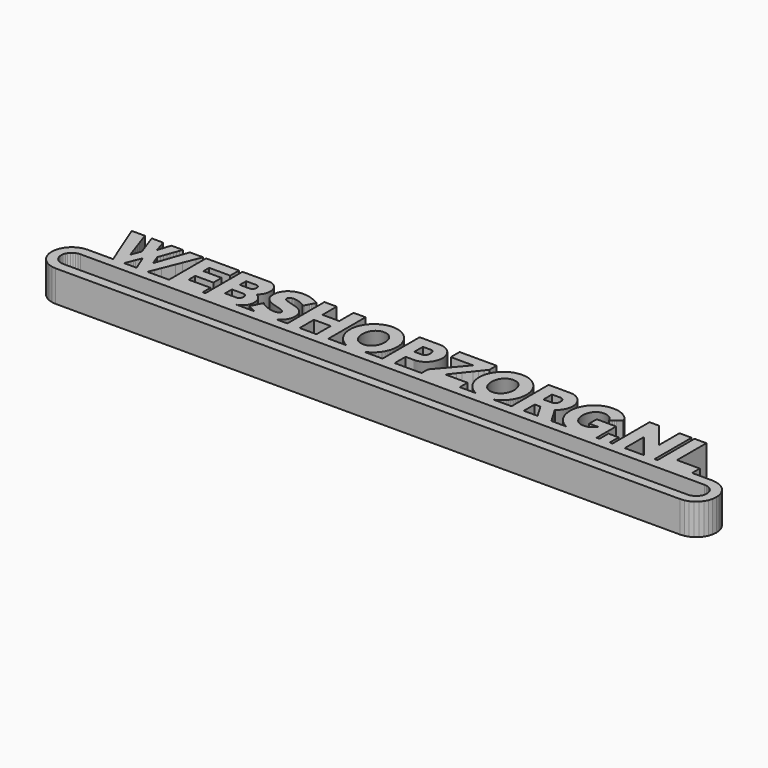
from build123d import *

# Parameters (mm, degrees)
F1_DEPTH = 8
F2_DEPTH = 8
F3_DEPTH = 1


with BuildPart() as f1:
    # F0 (on Top) → F1 (new body)
    with BuildSketch(Plane.XY):
        Polygon((80.878805, -0.939305), (79.840246, -0.834712), (79.193636, -0.834712), (78.546992, -0.834712), (77.900347, -0.834712), (77.253703, -0.834712), (76.607059, -0.834712), (75.960449, -0.834712), (75.313839, -0.834712), (74.667194, -0.834712), (74.667194, -0.526031), (74.667194, -0.217351), (74.667194, 0.09133), (74.667194, 0.40001), (74.667194, 0.708691), (74.667194, 1.017371), (74.667194, 1.326052), (74.667194, 1.634733), (73.93959, 1.634733), (73.211986, 1.634733), (72.484382, 1.634733), (71.756778, 1.634733), (71.029173, 1.634733), (70.301568, 1.634733), (69.573964, 1.634733), (68.84636, 1.634733), (68.84636, 2.807719), (68.84636, 3.980705), (68.84636, 5.153691), (68.84636, 6.326677), (68.84636, 7.499663), (68.84636, 8.672649), (68.84636, 9.845635), (68.84636, 11.018621), (68.467124, 11.018621), (68.087888, 11.018621), (67.708652, 11.018621), (67.329415, 11.018621), (66.950179, 11.018621), (66.570943, 11.018621), (66.191707, 11.018621), (65.812471, 11.018621), (65.812471, 9.536955), (65.812471, 8.055288), (65.812471, 6.573621), (65.812471, 5.091955), (65.812471, 3.610288), (65.812471, 2.128621), (65.812471, 0.646955), (65.812471, -0.834712), (65.719867, -0.834712), (65.627263, -0.834712), (65.534658, -0.834712), (65.442054, -0.834712), (65.34945, -0.834712), (65.256846, -0.834712), (65.164242, -0.834712), (65.071638, -0.834712), (65.071638, 0.646955), (65.071638, 2.128621), (65.071638, 3.610288), (65.071638, 5.091955), (65.071638, 6.573621), (65.071638, 8.055288), (65.071638, 9.536955), (65.071638, 11.018621), (64.683582, 11.018621), (64.295527, 11.018621), (63.907471, 11.018621), (63.519415, 11.018621), (63.13136, 11.018621), (62.743304, 11.018621), (62.355249, 11.018621), (61.967193, 11.018621), (61.967193, 10.202341), (61.967193, 9.386094), (61.967193, 8.569848), (61.967193, 7.753567), (61.967193, 6.937286), (61.967193, 6.121039), (61.967193, 5.304793), (61.967193, 4.488512), (61.317552, 5.304793), (60.66791, 6.121039), (60.018268, 6.937286), (59.368627, 7.753567), (58.718985, 8.569848), (58.069343, 9.386094), (57.419702, 10.202341), (56.77006, 11.018621), (56.462792, 11.018621), (56.155524, 11.018621), (55.848256, 11.018621), (55.540988, 11.018621), (55.23372, 11.018621), (54.926452, 11.018621), (54.619183, 11.018621), (54.311915, 11.018621), (54.311915, 9.536955), (54.311915, 8.055288), (54.311915, 6.573621), (54.311915, 5.091955), (54.311915, 3.610288), (54.311915, 2.128621), (54.311915, 0.646955), (54.311915, -0.834712), (54.223721, -0.834712), (54.135527, -0.834712), (54.047332, -0.834712), (53.959138, -0.834712), (53.870943, -0.834712), (53.782749, -0.834712), (53.694554, -0.834712), (53.60636, -0.834712), (53.60636, -0.477524), (53.60636, -0.120337), (53.60636, 0.236851), (53.60636, 0.594038), (53.60636, 0.951226), (53.60636, 1.308413), (53.60636, 1.665601), (53.60636, 2.022788), (53.28004, 2.022788), (52.953721, 2.022788), (52.627402, 2.022788), (52.301082, 2.022788), (51.974763, 2.022788), (51.648443, 2.022788), (51.322124, 2.022788), (50.995804, 2.022788), (50.995804, 1.665601), (50.995804, 1.308413), (50.995804, 0.951226), (50.995804, 0.594038), (50.995804, 0.236851), (50.995804, -0.120337), (50.995804, -0.477524), (50.995804, -0.834712), (50.9032, -0.834712), (50.810596, -0.834712), (50.717992, -0.834712), (50.625388, -0.834712), (50.532783, -0.834712), (50.440179, -0.834712), (50.347575, -0.834712), (50.254971, -0.834712), (50.254971, -0.054191), (50.254971, 0.72633), (50.254971, 1.506851), (50.254971, 2.287371), (50.254971, 3.067892), (50.254971, 3.848413), (50.254971, 4.628934), (50.254971, 5.409455), (49.6332, 5.409455), (49.011429, 5.409455), (48.389658, 5.409455), (47.767888, 5.409455), (47.146117, 5.409455), (46.524346, 5.409455), (45.902575, 5.409455), (45.280804, 5.409455), (45.280804, 5.109594), (45.280804, 4.809733), (45.280804, 4.509871), (45.280804, 4.21001), (45.280804, 3.910149), (45.280804, 3.610288), (45.280804, 3.310427), (45.280804, 3.010566), (45.576256, 3.010566), (45.871707, 3.010566), (46.167158, 3.010566), (46.46261, 3.010566), (46.758061, 3.010566), (47.053513, 3.010566), (47.348964, 3.010566), (47.644415, 3.010566), (47.644415, 3.003193), (47.644415, 2.995821), (47.644415, 2.988448), (47.644415, 2.981076), (47.644415, 2.973703), (47.644415, 2.966331), (47.644415, 2.958958), (47.644415, 2.95162), (47.326502, 2.632088), (47.006728, 2.356136), (46.68344, 2.123419), (46.35502, 1.933664), (46.019846, 1.786592), (45.676232, 1.681896), (45.322593, 1.619299), (44.957275, 1.59849), (44.79601, 1.602383), (44.637605, 1.614062), (44.482335, 1.633492), (44.330509, 1.66064), (44.182439, 1.695504), (44.038434, 1.738017), (43.89877, 1.788143), (43.763791, 1.845917), (43.63274, 1.910754), (43.505684, 1.981791), (43.382832, 2.059031), (43.264459, 2.142298), (43.150667, 2.23163), (43.041664, 2.326852), (42.937657, 2.427966), (42.838748, 2.534867), (42.744318, 2.647935), (42.654815, 2.766653), (42.570341, 2.890883), (42.490999, 3.020557), (42.416895, 3.155501), (42.348166, 3.295613), (42.284914, 3.440824), (42.227208, 3.590961), (42.17567, 3.74568), (42.130884, 3.90443), (42.09285, 4.067108), (42.061603, 4.233575), (42.037246, 4.403625), (42.019779, 4.577189), (42.009272, 4.754094), (42.005758, 4.934169), (42.008962, 5.110834), (42.018642, 5.28488), (42.034697, 5.456101), (42.057193, 5.62436), (42.086097, 5.789483), (42.12141, 5.951368), (42.163095, 6.109912), (42.211189, 6.264872), (42.264657, 6.415147), (42.323637, 6.561081), (42.38806, 6.702537), (42.457892, 6.839445), (42.533031, 6.971633), (42.613474, 7.098999), (42.699119, 7.221437), (42.789931, 7.338846), (42.884775, 7.449434), (42.984407, 7.553958), (43.088759, 7.65235), (43.197727, 7.744541), (43.311243, 7.830392), (43.429203, 7.909905), (43.551504, 7.982941), (43.678077, 8.0495), (43.807992, 8.108618), (43.94204, 8.159916), (44.080154, 8.203393), (44.222126, 8.23905), (44.367854, 8.266851), (44.517233, 8.28673), (44.670127, 8.29865), (44.826396, 8.302646), (45.030139, 8.296135), (45.230747, 8.27667), (45.428151, 8.244286), (45.622144, 8.199018), (45.812555, 8.140933), (45.99921, 8.070102), (46.181972, 7.98649), (46.360635, 7.890199), (46.530754, 7.782781), (46.690882, 7.664545), (46.84095, 7.535699), (46.980821, 7.396379), (47.110357, 7.246655), (47.229419, 7.086665), (47.337974, 6.916546), (47.435815, 6.736471), (47.449078, 6.709909), (47.462308, 6.683382), (47.475571, 6.656855), (47.488835, 6.630328), (47.502099, 6.603801), (47.515362, 6.577239), (47.528591, 6.550677), (47.541855, 6.52415), (47.835136, 6.745325), (48.128382, 6.966535), (48.421663, 7.187744), (48.714944, 7.408919), (49.008225, 7.630129), (49.301506, 7.851338), (49.594753, 8.072514), (49.888034, 8.293723), (49.87856, 8.312223), (49.869051, 8.330689), (49.859543, 8.349189), (49.850034, 8.367689), (49.840526, 8.386155), (49.831018, 8.404655), (49.821509, 8.423155), (49.812001, 8.441621), (49.64202, 8.744169), (49.451609, 9.03087), (49.240976, 9.301448), (49.010327, 9.555799), (48.759868, 9.793614), (48.489807, 10.014721), (48.200385, 10.218911), (47.891773, 10.40598), (47.567728, 10.572585), (47.229695, 10.717245), (46.878019, 10.839855), (46.512977, 10.940349), (46.134912, 11.018621), (45.74417, 11.074639), (45.341025, 11.108332), (44.925822, 11.119563), (44.608459, 11.111984), (44.295507, 11.089315), (43.98724, 11.051625), (43.683899, 10.998916), (43.385761, 10.931254), (43.0931, 10.848709), (42.806123, 10.751282), (42.525141, 10.63911), (42.252323, 10.513984), (41.988153, 10.377799), (41.732872, 10.230659), (41.486685, 10.072736), (41.249766, 9.904133), (41.02239, 9.725057), (40.804763, 9.535577), (40.597024, 9.335899), (40.399448, 9.125955), (40.212379, 8.906365), (40.036024, 8.677403), (39.870488, 8.439175), (39.715906, 8.19199), (39.572452, 7.93595), (39.440195, 7.671367), (39.319341, 7.398412), (39.2112, 7.118222), (39.117321, 6.833141), (39.037739, 6.543374), (38.972489, 6.249231), (38.921674, 5.95092), (38.885294, 5.648717), (38.863452, 5.342896), (38.856148, 5.033698), (38.863417, 4.693082), (38.885259, 4.358632), (38.921536, 4.03059), (38.972248, 3.709335), (39.037326, 3.395039), (39.11677, 3.088081), (39.210442, 2.788633), (39.318377, 2.497074), (39.438886, 2.214198), (39.570316, 1.941002), (39.712461, 1.677727), (39.865217, 1.424582), (40.028411, 1.181737), (40.20194, 0.949469), (40.385633, 0.727949), (40.57935, 0.517419), (40.78268, 0.317018), (40.994863, 0.126814), (41.215728, -0.052675), (41.445103, -0.22114), (41.682677, -0.37803), (41.928381, -0.522965), (42.181905, -0.655498), (42.443113, -0.775146), (42.457237, -0.782346), (42.471431, -0.791235), (42.485591, -0.801088), (42.499819, -0.810975), (42.514048, -0.820105), (42.528276, -0.827684), (42.542505, -0.832817), (42.556767, -0.834712), (42.073006, -0.834712), (41.58928, -0.834712), (41.105554, -0.834712), (40.621794, -0.834712), (40.138068, -0.834712), (39.654342, -0.834712), (39.170582, -0.834712), (38.686856, -0.834712), (38.377176, -0.309679), (38.067462, 0.215319), (37.757783, 0.740317), (37.448103, 1.265349), (37.138389, 1.790348), (36.828709, 2.315346), (36.51903, 2.840378), (36.209316, 3.365376), (36.300163, 3.424184), (36.389219, 3.48561), (36.476414, 3.549586), (36.561714, 3.616041), (36.645086, 3.684806), (36.726425, 3.755809), (36.805765, 3.828914), (36.883004, 3.904017), (36.97516, 3.999515), (37.063906, 4.098355), (37.149241, 4.200364), (37.231028, 4.305439), (37.309197, 4.413478), (37.383714, 4.524272), (37.454511, 4.637753), (37.521484, 4.75375), (37.584253, 4.871193), (37.643474, 4.991082), (37.699044, 5.113245), (37.750927, 5.237579), (37.799089, 5.363945), (37.843531, 5.492206), (37.884149, 5.622258), (37.920908, 5.753964), (37.953395, 5.886532), (37.981611, 6.02089), (38.00552, 6.156972), (38.025122, 6.294569), (38.040384, 6.433613), (38.051339, 6.573897), (38.057885, 6.715422), (38.06009, 6.857911), (38.055301, 7.049389), (38.040935, 7.24073), (38.017026, 7.431726), (37.983574, 7.622171), (37.940683, 7.811961), (37.888352, 8.000856), (37.826581, 8.188682), (37.755475, 8.375338), (37.676168, 8.558617), (37.589283, 8.737555), (37.494922, 8.912014), (37.393154, 9.081789), (37.284048, 9.24674), (37.167741, 9.406799), (37.044338, 9.561759), (36.913872, 9.711483), (36.775689, 9.855385), (36.631064, 9.991811), (36.480135, 10.120864), (36.323073, 10.242648), (36.159982, 10.357266), (35.991034, 10.464788), (35.816368, 10.565385), (35.636086, 10.659091), (35.448294, 10.744702), (35.255851, 10.818393), (35.059033, 10.880266), (34.857908, 10.930496), (34.652684, 10.969288), (34.443566, 10.996814), (34.230728, 11.013178), (34.014342, 11.018621), (33.323635, 11.018621), (32.632893, 11.018621), (31.942186, 11.018621), (31.251479, 11.018621), (30.560737, 11.018621), (29.87003, 11.018621), (29.179323, 11.018621), (28.488581, 11.018621), (28.488581, 9.536955), (28.488581, 8.055288), (28.488581, 6.573621), (28.488581, 5.091955), (28.488581, 3.610288), (28.488581, 2.128621), (28.488581, 0.646955), (28.488581, -0.834712), (27.910942, -0.834712), (27.333303, -0.834712), (26.755629, -0.834712), (26.17799, -0.834712), (25.600351, -0.834712), (25.022677, -0.834712), (24.445038, -0.834712), (23.867399, -0.834712), (23.893685, -0.821448), (23.919937, -0.808185), (23.946119, -0.794955), (23.972268, -0.78183), (23.998381, -0.768876), (24.024392, -0.756164), (24.050333, -0.743692), (24.076206, -0.7316), (24.348817, -0.597896), (24.612504, -0.452961), (24.866993, -0.297036), (25.112146, -0.130431), (25.347688, 0.046544), (25.573479, 0.233612), (25.78928, 0.430465), (25.994883, 0.636826), (26.190048, 0.852834), (26.37467, 1.077798), (26.548579, 1.311479), (26.711704, 1.553566), (26.86384, 1.803783), (27.004882, 2.061856), (27.134693, 2.327438), (27.253101, 2.600289), (27.359175, 2.879377), (27.451263, 3.162047), (27.529329, 3.447955), (27.593304, 3.736792), (27.643155, 4.028316), (27.678811, 4.322252), (27.700274, 4.618254), (27.707406, 4.916048), (27.700688, 5.201578), (27.680499, 5.486832), (27.646944, 5.7715), (27.600022, 6.055341), (27.539836, 6.338115), (27.466421, 6.619545), (27.379743, 6.899355), (27.279973, 7.177237), (27.167628, 7.450502), (27.043708, 7.717083), (26.908316, 7.97674), (26.761624, 8.229197), (26.603769, 8.474315), (26.434856, 8.71182), (26.255022, 8.941504), (26.064405, 9.163093), (25.862488, 9.375724), (25.649891, 9.578089), (25.426821, 9.770153), (25.193485, 9.95171), (24.950089, 10.122552), (24.69684, 10.282611), (24.433979, 10.431612), (24.161645, 10.569519), (23.879112, 10.693956), (23.588415, 10.801994), (23.289794, 10.893564), (22.98356, 10.968633), (22.669987, 11.027131), (22.349318, 11.068989), (22.021861, 11.094138), (21.687859, 11.102544), (21.361781, 11.094551), (21.041284, 11.070642), (20.726712, 11.030886), (20.418238, 10.975282), (20.116241, 10.9039), (19.820893, 10.816842), (19.532504, 10.714144), (19.251281, 10.595839), (18.978119, 10.464375), (18.713812, 10.321782), (18.45853, 10.168303), (18.212412, 10.004041), (17.975769, 9.829202), (17.748806, 9.643891), (17.53173, 9.448278), (17.324715, 9.242468), (17.127449, 9.02715), (16.941, 8.802908), (16.765472, 8.569916), (16.600935, 8.328346), (16.447628, 8.078474), (16.305621, 7.820505), (16.175121, 7.554647), (16.056196, 7.281106), (15.950156, 7.002054), (15.858069, 6.719625), (15.780003, 6.433992), (15.716027, 6.145465), (15.666142, 5.854286), (15.630486, 5.560694), (15.609023, 5.264933), (15.601891, 4.967311), (15.608782, 4.673789), (15.629418, 4.381645), (15.663731, 4.091155), (15.711687, 3.802593), (15.773216, 3.516237), (15.848319, 3.232292), (15.936892, 2.951035), (16.038936, 2.67274), (16.152865, 2.39975), (16.278198, 2.133755), (16.414831, 1.874925), (16.562591, 1.623536), (16.721341, 1.379727), (16.890943, 1.143772), (17.071293, 0.915879), (17.262255, 0.69622), (17.463965, 0.484898), (17.676356, 0.28267), (17.899322, 0.090021), (18.132555, -0.092638), (18.375917, -0.26479), (18.6292, -0.426055), (18.89213, -0.575916), (19.164568, -0.713961), (19.194644, -0.728672), (19.224857, -0.743968), (19.255174, -0.759609), (19.28556, -0.775422), (19.316083, -0.791063), (19.346676, -0.806324), (19.377337, -0.820966), (19.408067, -0.834712), (18.889477, -0.834712), (18.370887, -0.834712), (17.852331, -0.834712), (17.333741, -0.834712), (16.815151, -0.834712), (16.296595, -0.834712), (15.778005, -0.834712), (15.259414, -0.834712), (15.259414, -0.526031), (15.259414, -0.217351), (15.259414, 0.09133), (15.259414, 0.40001), (15.259414, 0.708691), (15.259414, 1.017371), (15.259414, 1.326052), (15.259414, 1.634733), (14.54721, 1.634733), (13.835004, 1.634733), (13.122834, 1.634733), (12.41063, 1.634733), (11.698425, 1.634733), (10.986255, 1.634733), (10.27405, 1.634733), (9.561846, 1.634733), (10.265231, 2.521604), (10.968616, 3.408474), (11.671967, 4.295345), (12.375352, 5.182216), (13.078737, 6.069087), (13.782088, 6.955958), (14.485474, 7.842829), (15.188859, 8.7297), (15.188859, 9.015815), (15.188859, 9.30193), (15.188859, 9.588046), (15.188859, 9.874161), (15.188859, 10.160276), (15.188859, 10.446391), (15.188859, 10.732506), (15.188859, 11.018621), (14.007052, 11.018621), (12.825247, 11.018621), (11.643441, 11.018621), (10.461636, 11.018621), (9.27983, 11.018621), (8.098025, 11.018621), (6.916219, 11.018621), (5.734413, 11.018621), (5.734413, 10.665844), (5.734413, 10.313066), (5.734413, 9.960288), (5.734413, 9.60751), (5.734413, 9.254733), (5.734413, 8.901955), (5.734413, 8.549177), (5.734413, 8.196399), (6.446859, 8.196399), (7.159339, 8.196399), (7.87182, 8.196399), (8.584265, 8.196399), (9.296711, 8.196399), (10.009157, 8.196399), (10.721603, 8.196399), (11.434083, 8.196399), (10.690734, 7.318623), (9.947421, 6.440847), (9.204107, 5.563072), (8.460793, 4.685296), (7.717479, 3.80752), (6.974131, 2.929744), (6.230783, 2.051934), (5.487469, 1.174158), (5.487469, 0.923045), (5.487469, 0.671966), (5.487469, 0.420853), (5.487469, 0.16974), (5.487469, -0.081373), (5.487469, -0.332486), (5.487469, -0.583599), (5.487469, -0.834712), (4.627573, -0.834712), (3.767677, -0.834712), (2.907781, -0.834712), (2.047886, -0.834712), (1.18799, -0.834712), (0.328094, -0.834712), (-0.531802, -0.834712), (-1.391698, -0.834712), (-1.391698, -0.398149), (-1.391698, 0.038413), (-1.391698, 0.474976), (-1.391698, 0.911538), (-1.391698, 1.348101), (-1.391698, 1.784663), (-1.391698, 2.221226), (-1.391698, 2.657788), (-1.119328, 2.657788), (-0.846976, 2.657788), (-0.574624, 2.657788), (-0.302255, 2.657788), (-0.029903, 2.657788), (0.242449, 2.657788), (0.514818, 2.657788), (0.787187, 2.657788), (1.00695, 2.663438), (1.222406, 2.680319), (1.433418, 2.708293), (1.639711, 2.747292), (1.84118, 2.797177), (2.037619, 2.857914), (2.228857, 2.929331), (2.414719, 3.011358), (2.59414, 3.102309), (2.767222, 3.201321), (2.933861, 3.308257), (3.093886, 3.423013), (3.247192, 3.545451), (3.393643, 3.6754), (3.533135, 3.812791), (3.665461, 3.957416), (3.789416, 4.10714), (3.906652, 4.2621), (4.017033, 4.422228), (4.12049, 4.587317), (4.216918, 4.75716), (4.306284, 4.931689), (4.388484, 5.110662), (4.463414, 5.293975), (4.530421, 5.481664), (4.588575, 5.671937), (4.637874, 5.864621), (4.678285, 6.059544), (4.709773, 6.256535), (4.73227, 6.455386), (4.745809, 6.655925), (4.750322, 6.85798), (4.745533, 7.049079), (4.731133, 7.240075), (4.707155, 7.430865), (4.673634, 7.621206), (4.630605, 7.810996), (4.57817, 8.000029), (4.516262, 8.188165), (4.444983, 8.375234), (4.365815, 8.558548), (4.279412, 8.737417), (4.185774, 8.911739), (4.085074, 9.081375), (3.977346, 9.246189), (3.862693, 9.406041), (3.741253, 9.560726), (3.613061, 9.710174), (3.477049, 9.85411), (3.334284, 9.990605), (3.184836, 10.119796), (3.028842, 10.241752), (2.866509, 10.356543), (2.697906, 10.464306), (2.523171, 10.565109), (2.34251, 10.659091), (2.154477, 10.744702), (1.96131, 10.818358), (1.763183, 10.880232), (1.560301, 10.930496), (1.352803, 10.969288), (1.14093, 10.996814), (0.924785, 11.013178), (0.704643, 11.018621), (0.054553, 11.018621), (-0.595553, 11.018621), (-1.24566, 11.018621), (-1.89575, 11.018621), (-2.545839, 11.018621), (-3.195946, 11.018621), (-3.846053, 11.018621), (-4.496142, 11.018621), (-4.496142, 9.536955), (-4.496142, 8.055288), (-4.496142, 6.573621), (-4.496142, 5.091955), (-4.496142, 3.610288), (-4.496142, 2.128621), (-4.496142, 0.646955), (-4.496142, -0.834712), (-5.084134, -0.834712), (-5.672125, -0.834712), (-6.260117, -0.834712), (-6.848109, -0.834712), (-7.4361, -0.834712), (-8.024092, -0.834712), (-8.612101, -0.834712), (-9.200093, -0.834712), (-9.173789, -0.821448), (-9.147538, -0.808185), (-9.121338, -0.794955), (-9.09519, -0.78183), (-9.06911, -0.768876), (-9.0431, -0.756164), (-9.017158, -0.743692), (-8.991303, -0.7316), (-8.718847, -0.597965), (-8.455298, -0.453099), (-8.200894, -0.297208), (-7.95581, -0.130603), (-7.720269, 0.046371), (-7.494512, 0.233474), (-7.278711, 0.430362), (-7.073074, 0.636757), (-6.877806, 0.852696), (-6.693114, 1.077661), (-6.519119, 1.311341), (-6.355942, 1.553428), (-6.203755, 1.803646), (-6.062679, 2.061752), (-5.93285, 2.327403), (-5.814408, 2.600289), (-5.708333, 2.879377), (-5.616246, 3.162047), (-5.53818, 3.447955), (-5.474205, 3.736792), (-5.424354, 4.028316), (-5.388697, 4.322252), (-5.367252, 4.618254), (-5.360103, 4.916048), (-5.366838, 5.201371), (-5.387009, 5.486453), (-5.420599, 5.771052), (-5.467521, 6.054859), (-5.527759, 6.337632), (-5.60126, 6.619131), (-5.687973, 6.899045), (-5.787863, 7.177133), (-5.900087, 7.450398), (-6.023939, 7.717014), (-6.159262, 7.976671), (-6.30592, 8.229162), (-6.463791, 8.474281), (-6.632756, 8.711786), (-6.812659, 8.941436), (-7.003379, 9.163024), (-7.20509, 9.375587), (-7.417549, 9.577951), (-7.64055, 9.769947), (-7.873852, 9.951469), (-8.117282, 10.122345), (-8.370652, 10.282405), (-8.633719, 10.431508), (-8.906278, 10.569519), (-9.188793, 10.693956), (-9.479473, 10.801994), (-9.778042, 10.893564), (-10.084225, 10.968633), (-10.397763, 11.027131), (-10.718346, 11.068989), (-11.045751, 11.094138), (-11.379684, 11.102544), (-11.705711, 11.094551), (-12.026156, 11.070642), (-12.340745, 11.030886), (-12.649219, 10.975282), (-12.951302, 10.9039), (-13.246754, 10.816842), (-13.53528, 10.714144), (-13.81659, 10.595839), (-14.089493, 10.464443), (-14.353664, 10.321954), (-14.608876, 10.16851), (-14.854925, 10.004282), (-15.091603, 9.829409), (-15.318704, 9.644028), (-15.536003, 9.448312), (-15.743295, 9.242399), (-15.940681, 9.026805), (-16.127233, 8.802323), (-16.30283, 8.569159), (-16.467299, 8.327588), (-16.620519, 8.077785), (-16.762371, 7.819954), (-16.892665, 7.554337), (-17.011314, 7.281106), (-17.117371, 7.002054), (-17.209458, 6.719625), (-17.287507, 6.433992), (-17.351482, 6.145465), (-17.401333, 5.854286), (-17.43699, 5.560694), (-17.458435, 5.264933), (-17.465584, 4.967311), (-17.458694, 4.673858), (-17.438092, 4.381817), (-17.403813, 4.091396), (-17.355892, 3.802869), (-17.294397, 3.516478), (-17.21938, 3.232499), (-17.130859, 2.951138), (-17.028918, 2.672671), (-16.914713, 2.399337), (-16.789174, 2.1331), (-16.652404, 1.874167), (-16.504575, 1.622709), (-16.34579, 1.378969), (-16.176205, 1.143152), (-15.995941, 0.9155), (-15.805169, 0.69622), (-15.60351, 0.484898), (-15.39112, 0.282705), (-15.16817, 0.090055), (-14.93492, -0.092569), (-14.691559, -0.264721), (-14.43831, -0.425986), (-14.175363, -0.575882), (-13.902941, -0.713961), (-13.872865, -0.728672), (-13.842686, -0.743968), (-13.812404, -0.759609), (-13.782018, -0.775422), (-13.751529, -0.791063), (-13.720937, -0.806324), (-13.690275, -0.820966), (-13.659528, -0.834712), (-14.242732, -0.834712), (-14.825917, -0.834712), (-15.409103, -0.834712), (-15.992289, -0.834712), (-16.575475, -0.834712), (-17.15866, -0.834712), (-17.741846, -0.834712), (-18.325032, -0.834712), (-18.325032, 0.646955), (-18.325032, 2.128621), (-18.325032, 3.610288), (-18.325032, 5.091955), (-18.325032, 6.573621), (-18.325032, 8.055288), (-18.325032, 9.536955), (-18.325032, 11.018621), (-18.708678, 11.018621), (-19.092324, 11.018621), (-19.47597, 11.018621), (-19.859615, 11.018621), (-20.243261, 11.018621), (-20.626907, 11.018621), (-21.010553, 11.018621), (-21.394199, 11.018621), (-21.394199, 10.449767), (-21.394199, 9.880913), (-21.394199, 9.312059), (-21.394199, 8.743205), (-21.394199, 8.174351), (-21.394199, 7.605496), (-21.394199, 7.036642), (-21.394199, 6.467788), (-21.932185, 6.467788), (-22.470171, 6.467788), (-23.008157, 6.467788), (-23.546143, 6.467788), (-24.084129, 6.467788), (-24.622115, 6.467788), (-25.160101, 6.467788), (-25.698088, 6.467788), (-25.698088, 7.036642), (-25.698088, 7.605496), (-25.698088, 8.174351), (-25.698088, 8.743205), (-25.698088, 9.312059), (-25.698088, 9.880913), (-25.698088, 10.449767), (-25.698088, 11.018621), (-26.090553, 11.018621), (-26.483018, 11.018621), (-26.875483, 11.018621), (-27.267949, 11.018621), (-27.660414, 11.018621), (-28.052879, 11.018621), (-28.445345, 11.018621), (-28.83781, 11.018621), (-28.83781, 9.536955), (-28.83781, 8.055288), (-28.83781, 6.573621), (-28.83781, 5.091955), (-28.83781, 3.610288), (-28.83781, 2.128621), (-28.83781, 0.646955), (-28.83781, -0.834712), (-29.191724, -0.834712), (-29.545639, -0.834712), (-29.899554, -0.834712), (-30.253451, -0.834712), (-30.607349, -0.834712), (-30.961263, -0.834712), (-31.315178, -0.834712), (-31.669093, -0.834712), (-31.577901, -0.79344), (-31.488173, -0.749205), (-31.399893, -0.702351), (-31.313128, -0.653224), (-31.227862, -0.602202), (-31.144112, -0.549596), (-31.061929, -0.495783), (-30.981314, -0.44111), (-30.822581, -0.324218), (-30.671531, -0.197817), (-30.528284, -0.062184), (-30.392926, 0.082407), (-30.265595, 0.235679), (-30.146378, 0.397392), (-30.035411, 0.567201), (-29.932816, 0.744864), (-29.840143, 0.93245), (-29.759683, 1.130612), (-29.69147, 1.339074), (-29.635556, 1.557494), (-29.591976, 1.785662), (-29.560815, 2.023305), (-29.542073, 2.270146), (-29.535821, 2.525944), (-29.540127, 2.735199), (-29.553063, 2.937737), (-29.574578, 3.133349), (-29.604619, 3.32183), (-29.643204, 3.503008), (-29.690281, 3.676641), (-29.745816, 3.842591), (-29.809775, 4.000617), (-29.882018, 4.152477), (-29.961703, 4.298997), (-30.048761, 4.440039), (-30.143088, 4.575466), (-30.244615, 4.705174), (-30.353238, 4.828991), (-30.468925, 4.946813), (-30.591536, 5.058503), (-30.719039, 5.162958), (-30.853501, 5.26321), (-30.994819, 5.359191), (-31.142837, 5.450796), (-31.297418, 5.537957), (-31.458425, 5.620536), (-31.625719, 5.698533), (-31.799197, 5.77181), (-31.972778, 5.840023), (-32.152371, 5.907237), (-32.337837, 5.973348), (-32.528988, 6.038288), (-32.725686, 6.102057), (-32.927793, 6.164551), (-33.135119, 6.225736), (-33.347509, 6.285508), (-33.498145, 6.326229), (-33.644373, 6.36602), (-33.786069, 6.404846), (-33.92315, 6.442673), (-34.055476, 6.479467), (-34.18291, 6.515193), (-34.305349, 6.549781), (-34.422689, 6.583268), (-34.531984, 6.615617), (-34.636491, 6.648656), (-34.736089, 6.682349), (-34.830743, 6.716627), (-34.92035, 6.751526), (-35.004841, 6.787011), (-35.08413, 6.823046), (-35.158148, 6.859564), (-35.223019, 6.894463), (-35.283721, 6.930327), (-35.340221, 6.967051), (-35.392448, 7.004706), (-35.440404, 7.043188), (-35.484019, 7.082531), (-35.523259, 7.122632), (-35.558089, 7.163491), (-35.585236, 7.201249), (-35.60868, 7.241419), (-35.628472, 7.284104), (-35.644578, 7.329407), (-35.657066, 7.377362), (-35.665955, 7.428143), (-35.671294, 7.481749), (-35.673051, 7.538248), (-35.665214, 7.668128), (-35.634914, 7.801832), (-35.571972, 7.932884), (-35.466174, 8.054737), (-35.307355, 8.160846), (-35.085284, 8.244699), (-34.789832, 8.299821), (-34.410734, 8.31963), (-34.285574, 8.317391), (-34.159948, 8.310673), (-34.033978, 8.299511), (-33.90775, 8.283905), (-33.781401, 8.263854), (-33.655018, 8.239428), (-33.528738, 8.210593), (-33.402665, 8.177382), (-33.274404, 8.140175), (-33.148589, 8.101452), (-33.025306, 8.061248), (-32.904676, 8.019562), (-32.786802, 7.976499), (-32.671788, 7.932023), (-32.559719, 7.886237), (-32.450733, 7.839143), (-32.344504, 7.791187), (-32.242632, 7.74361), (-32.14517, 7.696481), (-32.052222, 7.649869), (-31.963872, 7.603843), (-31.880208, 7.558368), (-31.801281, 7.513512), (-31.727177, 7.469312), (-31.648698, 7.420564), (-31.585205, 7.379808), (-31.53513, 7.346391), (-31.496924, 7.319691), (-31.469036, 7.299124), (-31.449916, 7.284035), (-31.438013, 7.273803), (-31.43176, 7.267843), (-31.408678, 7.237009), (-31.385613, 7.206141), (-31.362548, 7.175273), (-31.339466, 7.144405), (-31.316401, 7.113537), (-31.293336, 7.082703), (-31.270254, 7.05187), (-31.247189, 7.021002), (-31.068595, 7.358345), (-30.890001, 7.695689), (-30.711408, 8.033033), (-30.532814, 8.370377), (-30.35422, 8.70772), (-30.175626, 9.045064), (-29.997033, 9.382408), (-29.818439, 9.719752), (-29.838886, 9.731672), (-29.859315, 9.743626), (-29.879744, 9.755581), (-29.900174, 9.767501), (-29.920603, 9.779421), (-29.94105, 9.791375), (-29.961497, 9.80333), (-29.981926, 9.81525), (-30.082144, 9.873127), (-30.185462, 9.931349), (-30.291795, 9.98995), (-30.401039, 10.048827), (-30.513108, 10.107945), (-30.627881, 10.167269), (-30.74529, 10.226732), (-30.865231, 10.286298), (-30.986723, 10.344692), (-31.111039, 10.401674), (-31.238077, 10.457209), (-31.36775, 10.511228), (-31.499904, 10.563731), (-31.634469, 10.61465), (-31.771291, 10.663914), (-31.910301, 10.711526), (-32.050516, 10.756725), (-32.192678, 10.799996), (-32.336649, 10.841268), (-32.482307, 10.880508), (-32.629534, 10.91768), (-32.778224, 10.952751), (-32.928241, 10.985686), (-33.079429, 11.016451), (-33.233132, 11.044322), (-33.387799, 11.068506), (-33.543259, 11.089005), (-33.699374, 11.105817), (-33.856022, 11.118908), (-34.013067, 11.128313), (-34.17037, 11.133963), (-34.327811, 11.135824), (-34.553378, 11.131758), (-34.776534, 11.119632), (-34.997107, 11.099375), (-35.214888, 11.071125), (-35.42969, 11.034848), (-35.641322, 10.990578), (-35.849595, 10.938385), (-36.054337, 10.878234), (-36.256375, 10.809504), (-36.452814, 10.732541), (-36.6435, 10.64755), (-36.828278, 10.554567), (-37.006975, 10.453695), (-37.179437, 10.344967), (-37.345508, 10.228523), (-37.505033, 10.104431), (-37.657995, 9.971933), (-37.803102, 9.831752), (-37.940252, 9.683957), (-38.069322, 9.528687), (-38.190228, 9.366078), (-38.302831, 9.196338), (-38.407062, 9.019536), (-38.502784, 8.835843), (-38.588756, 8.644262), (-38.663394, 8.445273), (-38.726681, 8.239118), (-38.778529, 8.025936), (-38.81894, 7.806001), (-38.847845, 7.579383), (-38.865208, 7.346356), (-38.871013, 7.10706), (-38.867792, 6.93515), (-38.85818, 6.768097), (-38.842195, 6.60604), (-38.819836, 6.449116), (-38.791139, 6.297497), (-38.756136, 6.151287), (-38.714864, 6.010624), (-38.667305, 5.875611), (-38.61251, 5.743319), (-38.550843, 5.614714), (-38.482389, 5.489863), (-38.407183, 5.368872), (-38.325327, 5.251876), (-38.236874, 5.138946), (-38.14191, 5.030253), (-38.040487, 4.925832), (-37.934619, 4.826889), (-37.821671, 4.730805), (-37.701765, 4.637547), (-37.57502, 4.547285), (-37.441522, 4.460055), (-37.301428, 4.375995), (-37.154822, 4.295104), (-37.001825, 4.217452), (-36.846072, 4.144071), (-36.683085, 4.071862), (-36.513069, 4.000893), (-36.336095, 3.931233), (-36.15235, 3.862917), (-35.961957, 3.796013), (-35.765087, 3.730556), (-35.561844, 3.666615), (-35.418442, 3.624), (-35.275109, 3.581625), (-35.131965, 3.539526), (-34.989148, 3.497702), (-34.846763, 3.456223), (-34.704945, 3.415158), (-34.563834, 3.374506), (-34.423533, 3.334302), (-34.299664, 3.297956), (-34.179706, 3.260714), (-34.063744, 3.222646), (-33.951882, 3.183854), (-33.844223, 3.14427), (-33.740887, 3.103997), (-33.641961, 3.063035), (-33.547531, 3.021452), (-33.463023, 2.981145), (-33.383252, 2.939735), (-33.308303, 2.897326), (-33.23823, 2.853952), (-33.173101, 2.809648), (-33.112967, 2.764448), (-33.057914, 2.718422), (-33.007977, 2.671534), (-32.97065, 2.630331), (-32.938404, 2.586509), (-32.911222, 2.540035), (-32.88907, 2.490701), (-32.871896, 2.438508), (-32.859666, 2.383352), (-32.852362, 2.32513), (-32.849934, 2.263773), (-32.852362, 2.186086), (-32.869398, 2.086109), (-32.915632, 1.973902), (-33.005652, 1.859594), (-33.154067, 1.753175), (-33.375448, 1.664705), (-33.684439, 1.604278), (-34.095628, 1.581885), (-34.258116, 1.584641), (-34.420587, 1.592909), (-34.582885, 1.60669), (-34.744874, 1.625948), (-34.906397, 1.650649), (-35.067335, 1.680794), (-35.227532, 1.716312), (-35.38685, 1.757275), (-35.547288, 1.802612), (-35.704161, 1.849603), (-35.85733, 1.898145), (-36.006709, 1.948236), (-36.152126, 1.999775), (-36.293496, 2.05276), (-36.430628, 2.107124), (-36.563454, 2.162797), (-36.691766, 2.219262), (-36.814894, 2.275796), (-36.932751, 2.332227), (-37.045267, 2.388623), (-37.152289, 2.444881), (-37.253747, 2.500967), (-37.349538, 2.556778), (-37.439576, 2.612347), (-37.546236, 2.681353), (-37.631295, 2.738266), (-37.697148, 2.78412), (-37.746207, 2.819983), (-37.780864, 2.846924), (-37.803533, 2.865906), (-37.816607, 2.877999), (-37.822498, 2.884234), (-37.846511, 2.914448), (-37.870523, 2.944627), (-37.894535, 2.974806), (-37.918548, 3.005019), (-37.94256, 3.035233), (-37.966572, 3.065412), (-37.990584, 3.095591), (-38.014597, 3.125804), (-38.190968, 2.775473), (-38.367357, 2.425175), (-38.543746, 2.074844), (-38.720135, 1.724512), (-38.896524, 1.374214), (-39.072896, 1.023883), (-39.249267, 0.673551), (-39.425656, 0.323254), (-39.407707, 0.311092), (-39.389758, 0.298931), (-39.371809, 0.28677), (-39.35386, 0.274609), (-39.335911, 0.262448), (-39.317963, 0.250287), (-39.300014, 0.238091), (-39.282065, 0.22593), (-39.147999, 0.136908), (-39.010867, 0.049575), (-38.870824, -0.035691), (-38.727938, -0.118511), (-38.582366, -0.198541), (-38.434261, -0.275401), (-38.283693, -0.348747), (-38.130834, -0.418165), (-37.999249, -0.475595), (-37.866595, -0.532853), (-37.732943, -0.589214), (-37.598378, -0.64406), (-37.463003, -0.696701), (-37.326887, -0.746449), (-37.190134, -0.792682), (-37.052812, -0.834712), (-37.652948, -0.834712), (-38.253066, -0.834712), (-38.853185, -0.834712), (-39.45332, -0.834712), (-40.053456, -0.834712), (-40.653574, -0.834712), (-41.253693, -0.834712), (-41.853828, -0.834712), (-41.725447, -0.781382), (-41.600063, -0.727018), (-41.477762, -0.671139), (-41.358579, -0.613399), (-41.2426, -0.553385), (-41.12991, -0.49065), (-41.020546, -0.424814), (-40.914592, -0.355534), (-40.77243, -0.25256), (-40.637692, -0.142558), (-40.510482, -0.025735), (-40.390903, 0.097738), (-40.279041, 0.227583), (-40.175033, 0.363596), (-40.078932, 0.505534), (-39.990876, 0.653156), (-39.911449, 0.808185), (-39.842478, 0.970243), (-39.784015, 1.139121), (-39.736111, 1.314614), (-39.698783, 1.496515), (-39.672084, 1.684652), (-39.65603, 1.878749), (-39.650673, 2.078633), (-39.660594, 2.38597), (-39.690308, 2.68025), (-39.739746, 2.961232), (-39.808871, 3.22864), (-39.897583, 3.482268), (-40.00581, 3.72184), (-40.13352, 3.947115), (-40.280626, 4.157852), (-40.408818, 4.313294), (-40.546018, 4.459332), (-40.692142, 4.59593), (-40.847137, 4.723054), (-41.010865, 4.840532), (-41.183241, 4.948363), (-41.364177, 5.046411), (-41.553588, 5.13464), (-41.405484, 5.234031), (-41.265372, 5.340691), (-41.133356, 5.454586), (-41.00947, 5.575646), (-40.893801, 5.703804), (-40.786434, 5.83892), (-40.687388, 5.980996), (-40.596748, 6.129962), (-40.492017, 6.328951), (-40.401083, 6.531798), (-40.324017, 6.738366), (-40.260851, 6.948448), (-40.211638, 7.161837), (-40.176429, 7.378327), (-40.155259, 7.597779), (-40.148196, 7.819988), (-40.151366, 7.968265), (-40.160908, 8.116197), (-40.176773, 8.263648), (-40.198942, 8.410477), (-40.227399, 8.556618), (-40.262125, 8.701933), (-40.303088, 8.846248), (-40.350285, 8.98946), (-40.403478, 9.130089), (-40.462079, 9.267238), (-40.525985, 9.400805), (-40.595146, 9.530685), (-40.669491, 9.656741), (-40.748986, 9.778869), (-40.833546, 9.896967), (-40.923101, 10.010931), (-41.018703, 10.120898), (-41.119541, 10.225216), (-41.225495, 10.323987), (-41.336478, 10.417314), (-41.452371, 10.505337), (-41.57307, 10.588191), (-41.698489, 10.665981), (-41.828541, 10.73888), (-41.965243, 10.805852), (-42.106164, 10.863351), (-42.251168, 10.911513), (-42.400117, 10.950546), (-42.552908, 10.980588), (-42.70935, 11.001809), (-42.869375, 11.014453), (-43.03281, 11.018621), (-43.877806, 11.018621), (-44.722802, 11.018621), (-45.567815, 11.018621), (-46.41281, 11.018621), (-47.257806, 11.018621), (-48.102819, 11.018621), (-48.947815, 11.018621), (-49.792811, 11.018621), (-49.792811, 9.536955), (-49.792811, 8.055288), (-49.792811, 6.573621), (-49.792811, 5.091955), (-49.792811, 3.610288), (-49.792811, 2.128621), (-49.792811, 0.646955), (-49.792811, -0.834712), (-49.876596, -0.834712), (-49.96038, -0.834712), (-50.044165, -0.834712), (-50.12795, -0.834712), (-50.211734, -0.834712), (-50.295519, -0.834712), (-50.379304, -0.834712), (-50.463089, -0.834712), (-50.463089, -0.526031), (-50.463089, -0.217351), (-50.463089, 0.09133), (-50.463089, 0.40001), (-50.463089, 0.708691), (-50.463089, 1.017371), (-50.463089, 1.326052), (-50.463089, 1.634733), (-51.164234, 1.634733), (-51.86538, 1.634733), (-52.566526, 1.634733), (-53.267672, 1.634733), (-53.968818, 1.634733), (-54.669964, 1.634733), (-55.371109, 1.634733), (-56.072255, 1.634733), (-56.072255, 1.899316), (-56.072255, 2.163899), (-56.072255, 2.428483), (-56.072255, 2.693066), (-56.072255, 2.957649), (-56.072255, 3.222233), (-56.072255, 3.486816), (-56.072255, 3.751399), (-55.490172, 3.751399), (-54.908089, 3.751399), (-54.326005, 3.751399), (-53.743922, 3.751399), (-53.161839, 3.751399), (-52.579755, 3.751399), (-51.997672, 3.751399), (-51.415589, 3.751399), (-51.415589, 4.077719), (-51.415589, 4.404038), (-51.415589, 4.730358), (-51.415589, 5.056677), (-51.415589, 5.382996), (-51.415589, 5.709316), (-51.415589, 6.035635), (-51.415589, 6.361955), (-51.997672, 6.361955), (-52.579755, 6.361955), (-53.161839, 6.361955), (-53.743922, 6.361955), (-54.326005, 6.361955), (-54.908089, 6.361955), (-55.490172, 6.361955), (-56.072255, 6.361955), (-56.072255, 6.59126), (-56.072255, 6.820566), (-56.072255, 7.049871), (-56.072255, 7.279177), (-56.072255, 7.508483), (-56.072255, 7.737788), (-56.072255, 7.967094), (-56.072255, 8.196399), (-55.397568, 8.196399), (-54.72288, 8.196399), (-54.048193, 8.196399), (-53.373505, 8.196399), (-52.698818, 8.196399), (-52.02413, 8.196399), (-51.349443, 8.196399), (-50.674755, 8.196399), (-50.674755, 8.549177), (-50.674755, 8.901955), (-50.674755, 9.254733), (-50.674755, 9.60751), (-50.674755, 9.960288), (-50.674755, 10.313066), (-50.674755, 10.665844), (-50.674755, 11.018621), (-51.728679, 11.018621), (-52.782602, 11.018621), (-53.836526, 11.018621), (-54.89045, 11.018621), (-55.944373, 11.018621), (-56.998297, 11.018621), (-58.052221, 11.018621), (-59.106144, 11.018621), (-59.106144, 9.536955), (-59.106144, 8.055288), (-59.106144, 6.573621), (-59.106144, 5.091955), (-59.106144, 3.610288), (-59.106144, 2.128621), (-59.106144, 0.646955), (-59.106144, -0.834712), (-59.79251, -0.834712), (-60.47886, -0.834712), (-61.165209, -0.834712), (-61.851575, -0.834712), (-62.537942, -0.834712), (-63.224308, -0.834712), (-63.910674, -0.834712), (-64.597023, -0.834712), (-64.004122, 0.646955), (-63.411222, 2.128621), (-62.818321, 3.610288), (-62.22542, 5.091955), (-61.632519, 6.573621), (-61.039618, 8.055288), (-60.446717, 9.536955), (-59.853816, 11.018621), (-60.279079, 11.018621), (-60.704341, 11.018621), (-61.129604, 11.018621), (-61.554866, 11.018621), (-61.980129, 11.018621), (-62.405391, 11.018621), (-62.830654, 11.018621), (-63.255917, 11.018621), (-63.608471, 9.985816), (-63.961042, 8.953011), (-64.313595, 7.920206), (-64.666149, 6.887401), (-65.01872, 5.854596), (-65.371274, 4.82179), (-65.723828, 3.78902), (-66.076399, 2.756215), (-66.198218, 3.077607), (-66.320019, 3.399035), (-66.44182, 3.720428), (-66.563639, 4.041821), (-66.685458, 4.363248), (-66.807276, 4.684641), (-66.929095, 5.006034), (-67.050896, 5.327462), (-66.795322, 6.034464), (-66.539764, 6.741432), (-66.28419, 7.4484), (-66.028616, 8.155403), (-65.773041, 8.862405), (-65.517467, 9.569373), (-65.26191, 10.276341), (-65.006335, 10.983344), (-65.374685, 10.983344), (-65.743034, 10.983344), (-66.111384, 10.983344), (-66.479734, 10.983344), (-66.848083, 10.983344), (-67.216433, 10.983344), (-67.584782, 10.983344), (-67.953132, 10.983344), (-68.084373, 10.569622), (-68.215597, 10.155901), (-68.346838, 9.742214), (-68.478079, 9.328492), (-68.609319, 8.914771), (-68.74056, 8.501083), (-68.871784, 8.087362), (-69.003025, 7.67364), (-69.134231, 8.087362), (-69.265455, 8.501083), (-69.396679, 8.914771), (-69.527885, 9.328492), (-69.659092, 9.742214), (-69.790315, 10.155901), (-69.921539, 10.569622), (-70.052746, 10.983344), (-70.418821, 10.983344), (-70.784897, 10.983344), (-71.150974, 10.983344), (-71.51705, 10.983344), (-71.883126, 10.983344), (-72.249202, 10.983344), (-72.615277, 10.983344), (-72.981353, 10.983344), (-72.730051, 10.276858), (-72.478766, 9.570372), (-72.22748, 8.863886), (-71.976195, 8.157401), (-71.72491, 7.450915), (-71.473607, 6.744429), (-71.222305, 6.037978), (-70.97102, 5.331492), (-71.089152, 5.009204), (-71.207267, 4.686949), (-71.325382, 4.364661), (-71.443514, 4.042372), (-71.561629, 3.720083), (-71.679745, 3.397795), (-71.797877, 3.075506), (-71.915992, 2.753217), (-72.270268, 3.786401), (-72.624562, 4.819586), (-72.978838, 5.85277), (-73.333115, 6.885919), (-73.687391, 7.919069), (-74.041668, 8.952253), (-74.395961, 9.985437), (-74.750238, 11.018621), (-75.173347, 11.018621), (-75.596439, 11.018621), (-76.019549, 11.018621), (-76.442658, 11.018621), (-76.86575, 11.018621), (-77.28886, 11.018621), (-77.711969, 11.018621), (-78.135061, 11.018621), (-77.544279, 9.536955), (-76.953497, 8.055288), (-76.362715, 6.573621), (-75.771932, 5.091955), (-75.18115, 3.610288), (-74.590368, 2.128621), (-73.999569, 0.646955), (-73.408786, -0.834712), (-74.212717, -0.834712), (-75.01663, -0.834712), (-75.82056, -0.834712), (-76.62449, -0.834712), (-77.42842, -0.834712), (-78.232351, -0.834712), (-79.036281, -0.834712), (-79.840211, -0.834712), (-80.87877, -0.939305), (-81.846704, -1.239373), (-82.723084, -1.71421), (-83.487017, -2.343078), (-84.117573, -3.105305), (-84.593874, -3.980222), (-84.894993, -4.947122), (-85, -5.985267), (-84.894993, -7.023412), (-84.593874, -7.990313), (-84.117573, -8.865229), (-83.487017, -9.627457), (-82.723084, -10.256325), (-81.846704, -10.731162), (-80.87877, -11.03123), (-79.840211, -11.135823), (-59.880154, -11.135823), (-39.920096, -11.135823), (-19.96004, -11.135823), (1.8e-05, -11.135823), (19.960075, -11.135823), (39.920131, -11.135823), (59.880189, -11.135823), (79.840246, -11.135823), (80.878805, -11.03123), (81.846739, -10.731162), (82.723137, -10.256325), (83.487052, -9.627457), (84.117608, -8.865229), (84.593892, -7.990313), (84.894994, -7.023412), (85, -5.985267), (84.894994, -4.947122), (84.593892, -3.980222), (84.117608, -3.105305), (83.487052, -2.343078), (82.723137, -1.71421), (81.846739, -1.239373), align=None)
        Polygon((80.388878, -8.646569), (79.840246, -8.701656), (59.880189, -8.701656), (39.920131, -8.701656), (19.960075, -8.701656), (1.8e-05, -8.701656), (-19.96004, -8.701656), (-39.920096, -8.701656), (-59.880154, -8.701656), (-79.840211, -8.701656), (-80.388843, -8.646569), (-80.900164, -8.488577), (-81.363116, -8.238463), (-81.766674, -7.907079), (-82.09978, -7.505244), (-82.351376, -7.043773), (-82.510436, -6.53352), (-82.565919, -5.985267), (-82.510436, -5.437049), (-82.351376, -4.926796), (-82.09978, -4.465326), (-81.766674, -4.06349), (-81.363116, -3.732106), (-80.900164, -3.481992), (-80.388843, -3.323966), (-79.840211, -3.268879), (-59.880154, -3.268879), (-39.920096, -3.268879), (-19.96004, -3.268879), (1.8e-05, -3.268879), (19.960075, -3.268879), (39.920131, -3.268879), (59.880189, -3.268879), (79.840246, -3.268879), (80.388878, -3.323966), (80.900199, -3.481992), (81.363151, -3.732106), (81.766709, -4.06349), (82.099781, -4.465326), (82.351411, -4.926796), (82.510471, -5.437049), (82.565937, -5.985267), (82.510471, -6.53352), (82.351411, -7.043773), (82.099781, -7.505244), (81.766709, -7.907079), (81.363151, -8.238463), (80.900199, -8.488577), align=None, mode=Mode.SUBTRACT)
        Polygon((47.51364, -0.295623), (47.644415, -0.205155), (47.644415, -0.283841), (47.644415, -0.362527), (47.644415, -0.441213), (47.644415, -0.519933), (47.644415, -0.598654), (47.644415, -0.67734), (47.644415, -0.756026), (47.644415, -0.834712), (47.517636, -0.834712), (47.390822, -0.834712), (47.264008, -0.834712), (47.137228, -0.834712), (47.010449, -0.834712), (46.883635, -0.834712), (46.756821, -0.834712), (46.630041, -0.834712), (46.757958, -0.767119), (46.884083, -0.696529), (47.009209, -0.622907), (47.13399, -0.546082), (47.259185, -0.465983), (47.385482, -0.382543), align=None, mode=Mode.SUBTRACT)
        Polygon((-69.2021, 2.638358), (-69.002215, 3.134486), (-68.800539, 2.638358), (-68.598864, 2.142195), (-68.397188, 1.646032), (-68.195495, 1.14987), (-67.993801, 0.653707), (-67.792126, 0.157579), (-67.59045, -0.338549), (-67.388774, -0.834712), (-67.790334, -0.834712), (-68.191877, -0.834712), (-68.59342, -0.834712), (-68.994981, -0.834712), (-69.396541, -0.834712), (-69.798101, -0.834712), (-70.199662, -0.834712), (-70.601205, -0.834712), (-70.401338, -0.338549), (-70.201453, 0.157579), (-70.001586, 0.653707), (-69.801719, 1.14987), (-69.601834, 1.646032), (-69.401967, 2.142195), align=None, mode=Mode.SUBTRACT)
        Polygon((-46.688366, 3.477996), (-46.688366, 3.751399), (-46.318484, 3.751399), (-45.948601, 3.751399), (-45.578736, 3.751399), (-45.208853, 3.751399), (-44.83897, 3.751399), (-44.469105, 3.751399), (-44.099222, 3.751399), (-43.729339, 3.751399), (-43.633807, 3.746438), (-43.542856, 3.731521), (-43.456333, 3.706751), (-43.374116, 3.672162), (-43.296084, 3.627789), (-43.222049, 3.573701), (-43.151907, 3.509967), (-43.08552, 3.436552), (-43.021751, 3.352044), (-42.966664, 3.263643), (-42.920224, 3.171107), (-42.882363, 3.074197), (-42.853028, 2.972601), (-42.832133, 2.866079), (-42.819645, 2.754354), (-42.815493, 2.637186), (-42.819972, 2.5184), (-42.833408, 2.405607), (-42.85587, 2.298809), (-42.887461, 2.198075), (-42.928217, 2.103334), (-42.978205, 2.014727), (-43.037495, 1.932217), (-43.106122, 1.855839), (-43.181604, 1.787213), (-43.261599, 1.727819), (-43.346279, 1.677693), (-43.435783, 1.636731), (-43.530299, 1.604933), (-43.629966, 1.582264), (-43.734955, 1.56869), (-43.845422, 1.564177), (-44.200801, 1.564177), (-44.556162, 1.564177), (-44.911524, 1.564177), (-45.266885, 1.564177), (-45.622247, 1.564177), (-45.977626, 1.564177), (-46.333005, 1.564177), (-46.688366, 1.564177), (-46.688366, 1.83758), (-46.688366, 2.110983), (-46.688366, 2.384385), (-46.688366, 2.657788), (-46.688366, 2.931191), (-46.688366, 3.204594), align=None, mode=Mode.SUBTRACT)
        Polygon((-25.698088, 3.147267), (-25.698088, 3.716121), (-25.160101, 3.716121), (-24.622115, 3.716121), (-24.084129, 3.716121), (-23.546143, 3.716121), (-23.008157, 3.716121), (-22.470171, 3.716121), (-21.932185, 3.716121), (-21.394199, 3.716121), (-21.394199, 3.147267), (-21.394199, 2.578413), (-21.394199, 2.009559), (-21.394199, 1.440705), (-21.394199, 0.871851), (-21.394199, 0.302996), (-21.394199, -0.265858), (-21.394199, -0.834712), (-21.932185, -0.834712), (-22.470171, -0.834712), (-23.008157, -0.834712), (-23.546143, -0.834712), (-24.084129, -0.834712), (-24.622115, -0.834712), (-25.160101, -0.834712), (-25.698088, -0.834712), (-25.698088, -0.265858), (-25.698088, 0.302996), (-25.698088, 0.871851), (-25.698088, 1.440705), (-25.698088, 2.009559), (-25.698088, 2.578413), align=None, mode=Mode.SUBTRACT)
        Polygon((-14.060588, 3.52547), (-14.110318, 3.673885), (-14.154674, 3.826571), (-14.193191, 3.980912), (-14.225851, 4.136768), (-14.252619, 4.294002), (-14.273462, 4.452545), (-14.288379, 4.612156), (-14.297354, 4.772732), (-14.300351, 4.934169), (-14.297474, 5.09223), (-14.288879, 5.249878), (-14.274582, 5.407009), (-14.254583, 5.563451), (-14.228917, 5.7191), (-14.197584, 5.873785), (-14.160634, 6.027436), (-14.118087, 6.179847), (-14.07039, 6.327848), (-14.016664, 6.47206), (-13.956994, 6.612344), (-13.891434, 6.748563), (-13.820052, 6.880614), (-13.742865, 7.008393), (-13.659976, 7.131727), (-13.571437, 7.250583), (-13.478006, 7.363547), (-13.378925, 7.471276), (-13.27428, 7.573698), (-13.164209, 7.670678), (-13.048764, 7.762179), (-12.928082, 7.8481), (-12.802233, 7.928336), (-12.671354, 8.002819), (-12.536306, 8.069069), (-12.394626, 8.126602), (-12.246453, 8.175315), (-12.091906, 8.215278), (-11.931141, 8.246388), (-11.764277, 8.268643), (-11.591454, 8.282044), (-11.412826, 8.286488), (-11.24145, 8.282251), (-11.074862, 8.269539), (-10.913218, 8.24842), (-10.756639, 8.218861), (-10.605244, 8.180965), (-10.459189, 8.134732), (-10.318595, 8.080196), (-10.183616, 8.017392), (-10.052857, 7.946837), (-9.926905, 7.870287), (-9.805827, 7.787811), (-9.689727, 7.699479), (-9.578692, 7.605393), (-9.472841, 7.505658), (-9.372279, 7.400307), (-9.277091, 7.289478), (-9.186864, 7.172689), (-9.102235, 7.051077), (-9.023239, 6.924814), (-8.949979, 6.79397), (-8.882507, 6.658646), (-8.820857, 6.519017), (-8.765132, 6.375184), (-8.715351, 6.227217), (-8.670892, 6.074289), (-8.632289, 5.919777), (-8.599578, 5.763817), (-8.572758, 5.606583), (-8.551846, 5.448178), (-8.536895, 5.288739), (-8.527903, 5.128404), (-8.524906, 4.967311), (-8.527782, 4.809836), (-8.536412, 4.652602), (-8.550744, 4.495747), (-8.570794, 4.339408), (-8.596529, 4.18369), (-8.627914, 4.028798), (-8.664932, 3.874803), (-8.707565, 3.721909), (-8.755451, 3.57315), (-8.809092, 3.427974), (-8.868433, 3.286587), (-8.933391, 3.14899), (-9.003912, 3.015389), (-9.079962, 2.885853), (-9.161456, 2.760521), (-9.248359, 2.639529), (-9.339998, 2.524739), (-9.437753, 2.415253), (-9.541484, 2.311074), (-9.651142, 2.212337), (-9.766604, 2.119113), (-9.887785, 2.031504), (-10.014582, 1.94958), (-10.146891, 1.873443), (-10.283541, 1.805403), (-10.426633, 1.746285), (-10.576029, 1.696193), (-10.73161, 1.655128), (-10.893219, 1.623157), (-11.060703, 1.600247), (-11.233957, 1.586501), (-11.412826, 1.581885), (-11.584409, 1.586226), (-11.75141, 1.599317), (-11.913691, 1.621021), (-12.071115, 1.651372), (-12.223577, 1.690336), (-12.370907, 1.737879), (-12.513, 1.793965), (-12.649684, 1.858595), (-12.781872, 1.930942), (-12.908824, 2.009214), (-13.030436, 2.093481), (-13.146587, 2.183571), (-13.257192, 2.279413), (-13.362164, 2.38094), (-13.461383, 2.488048), (-13.55478, 2.600703), (-13.643508, 2.719765), (-13.726845, 2.843375), (-13.804721, 2.97143), (-13.877103, 3.10379), (-13.943903, 3.240319), (-14.005088, 3.380914), align=None, mode=Mode.SUBTRACT)
        Polygon((-46.688366, 8.046469), (-46.688366, 8.302233), (-46.364114, 8.302233), (-46.039862, 8.302233), (-45.715609, 8.302233), (-45.391374, 8.302233), (-45.067139, 8.302233), (-44.742886, 8.302233), (-44.418634, 8.302233), (-44.094382, 8.302233), (-44.008599, 8.298684), (-43.926261, 8.287832), (-43.847248, 8.269435), (-43.771438, 8.243218), (-43.698695, 8.208939), (-43.62888, 8.166358), (-43.561891, 8.115164), (-43.497571, 8.055116), (-43.438367, 7.986593), (-43.387241, 7.910732), (-43.344109, 7.82743), (-43.308969, 7.736513), (-43.281718, 7.637949), (-43.262322, 7.531565), (-43.250712, 7.417256), (-43.246871, 7.294956), (-43.25116, 7.163766), (-43.264079, 7.042361), (-43.28568, 6.930568), (-43.316031, 6.828317), (-43.355202, 6.735541), (-43.403227, 6.652101), (-43.460209, 6.577962), (-43.526165, 6.512988), (-43.601078, 6.453457), (-43.678145, 6.401573), (-43.757503, 6.357476), (-43.839307, 6.321234), (-43.923694, 6.292881), (-44.010838, 6.27252), (-44.100858, 6.260256), (-44.193893, 6.256121), (-44.505692, 6.256121), (-44.817507, 6.256121), (-45.129323, 6.256121), (-45.441138, 6.256121), (-45.752954, 6.256121), (-46.064752, 6.256121), (-46.376551, 6.256121), (-46.688366, 6.256121), (-46.688366, 6.511885), (-46.688366, 6.767649), (-46.688366, 7.023413), (-46.688366, 7.279177), (-46.688366, 7.534941), (-46.688366, 7.790705), align=None, mode=Mode.SUBTRACT)
        Polygon((31.628303, 2.221226), (31.628303, 2.657788), (31.810962, 2.657788), (31.993656, 2.657788), (32.176349, 2.657788), (32.359008, 2.657788), (32.541701, 2.657788), (32.724395, 2.657788), (32.907054, 2.657788), (33.089747, 2.657788), (33.348371, 2.221226), (33.607028, 1.784663), (33.865686, 1.348101), (34.124344, 0.911538), (34.383002, 0.474976), (34.641625, 0.038413), (34.900248, -0.398149), (35.158906, -0.834712), (34.717589, -0.834712), (34.276273, -0.834712), (33.834956, -0.834712), (33.393605, -0.834712), (32.952253, -0.834712), (32.510937, -0.834712), (32.06962, -0.834712), (31.628303, -0.834712), (31.628303, -0.398149), (31.628303, 0.038413), (31.628303, 0.474976), (31.628303, 0.911538), (31.628303, 1.348101), (31.628303, 1.784663), align=None, mode=Mode.SUBTRACT)
        Polygon((19.007299, 3.52547), (18.957552, 3.673885), (18.913214, 3.826571), (18.874698, 3.980912), (18.842004, 4.136768), (18.815235, 4.294002), (18.794358, 4.452545), (18.779441, 4.612156), (18.770449, 4.772732), (18.767452, 4.934169), (18.770311, 5.09223), (18.778924, 5.249878), (18.793256, 5.407009), (18.813272, 5.563451), (18.838938, 5.7191), (18.870288, 5.873854), (18.907288, 6.027505), (18.94987, 6.179985), (18.997412, 6.327883), (19.050983, 6.471991), (19.110549, 6.612207), (19.17604, 6.748426), (19.247388, 6.880476), (19.324558, 7.008255), (19.407482, 7.131658), (19.496089, 7.250583), (19.589555, 7.363582), (19.688636, 7.471344), (19.793298, 7.573767), (19.903438, 7.670747), (20.018952, 7.762248), (20.139702, 7.848169), (20.26562, 7.928405), (20.396603, 8.002888), (20.531513, 8.069103), (20.673037, 8.126602), (20.821108, 8.175315), (20.97562, 8.215278), (21.136368, 8.246388), (21.303214, 8.268643), (21.47602, 8.282044), (21.654683, 8.286488), (21.826042, 8.282251), (21.992578, 8.269539), (22.154222, 8.24842), (22.31087, 8.218861), (22.462317, 8.180965), (22.608423, 8.134732), (22.749121, 8.080196), (22.884203, 8.017392), (23.015013, 7.946699), (23.141069, 7.87008), (23.262233, 7.787535), (23.378368, 7.699203), (23.489403, 7.605152), (23.595202, 7.505451), (23.69573, 7.400203), (23.790814, 7.289478), (23.881041, 7.172689), (23.965653, 7.051077), (24.044615, 6.924814), (24.117857, 6.79397), (24.185347, 6.658646), (24.24698, 6.519017), (24.302721, 6.375184), (24.352503, 6.227217), (24.396876, 6.074565), (24.435392, 5.920259), (24.468051, 5.764437), (24.49482, 5.607203), (24.515697, 5.448763), (24.530614, 5.289221), (24.539571, 5.12868), (24.542569, 4.967311), (24.539675, 4.809939), (24.531062, 4.652808), (24.51673, 4.496022), (24.496749, 4.339684), (24.471083, 4.183965), (24.439767, 4.029005), (24.402836, 3.87494), (24.360289, 3.721909), (24.312471, 3.573391), (24.2589, 3.428422), (24.199609, 3.287069), (24.134669, 3.149541), (24.064114, 3.015906), (23.988046, 2.886267), (23.906501, 2.760796), (23.819547, 2.639529), (23.727941, 2.524842), (23.630273, 2.415391), (23.526541, 2.31128), (23.416918, 2.212578), (23.301439, 2.119354), (23.180206, 2.031676), (23.053357, 1.949683), (22.920962, 1.873443), (22.78433, 1.805403), (22.641221, 1.746285), (22.491772, 1.696193), (22.336157, 1.655128), (22.174513, 1.623157), (22.006944, 1.600247), (21.833621, 1.586501), (21.654683, 1.581885), (21.483186, 1.586226), (21.316271, 1.599317), (21.154042, 1.621021), (20.99667, 1.651372), (20.844259, 1.690336), (20.696946, 1.737879), (20.554871, 1.793965), (20.418169, 1.858595), (20.285947, 1.930942), (20.158995, 2.009214), (20.037417, 2.093481), (19.921249, 2.183571), (19.810627, 2.279413), (19.705655, 2.38094), (19.606436, 2.488048), (19.513074, 2.600703), (19.424328, 2.719765), (19.341026, 2.843375), (19.263132, 2.97143), (19.190751, 3.10379), (19.12395, 3.240319), (19.062765, 3.380914), align=None, mode=Mode.SUBTRACT)
        Polygon((57.451638, 4.47766), (57.451638, 5.23658), (58.063728, 4.47766), (58.675818, 3.71874), (59.287942, 2.959854), (59.900033, 2.200934), (60.512123, 1.442014), (61.124247, 0.683128), (61.736337, -0.075792), (62.348427, -0.834712), (61.736337, -0.834712), (61.124247, -0.834712), (60.512123, -0.834712), (59.900033, -0.834712), (59.287942, -0.834712), (58.675818, -0.834712), (58.063728, -0.834712), (57.451638, -0.834712), (57.451638, -0.075792), (57.451638, 0.683128), (57.451638, 1.442014), (57.451638, 2.200934), (57.451638, 2.959854), (57.451638, 3.71874), align=None, mode=Mode.SUBTRACT)
        Polygon((-1.391698, 7.852441), (-1.391698, 8.196399), (-1.152505, 8.196399), (-0.913312, 8.196399), (-0.674119, 8.196399), (-0.434926, 8.196399), (-0.195733, 8.196399), (0.04346, 8.196399), (0.282653, 8.196399), (0.521846, 8.196399), (0.570491, 8.196434), (0.619101, 8.196055), (0.667711, 8.194608), (0.716425, 8.191369), (0.765311, 8.185685), (0.814473, 8.176866), (0.863944, 8.164257), (0.913898, 8.147134), (0.961027, 8.127601), (1.006743, 8.106344), (1.051116, 8.083021), (1.094214, 8.057217), (1.136107, 8.028554), (1.176897, 7.996653), (1.216584, 7.961134), (1.255307, 7.921618), (1.293272, 7.877831), (1.329445, 7.831633), (1.363655, 7.782919), (1.39597, 7.731587), (1.426322, 7.677465), (1.454709, 7.620448), (1.481099, 7.560435), (1.505421, 7.497355), (1.527883, 7.429176), (1.547417, 7.357518), (1.563988, 7.282415), (1.577527, 7.203867), (1.588103, 7.12184), (1.595648, 7.036298), (1.600195, 6.947277), (1.601711, 6.854741), (1.596923, 6.680488), (1.58266, 6.517776), (1.558958, 6.366571), (1.525747, 6.226769), (1.483166, 6.098302), (1.431214, 5.981031), (1.369925, 5.874887), (1.299335, 5.779803), (1.225128, 5.698912), (1.148199, 5.629734), (1.068411, 5.571994), (0.985625, 5.525417), (0.89967, 5.489657), (0.810407, 5.464507), (0.717665, 5.449625), (0.621341, 5.444733), (0.369711, 5.444733), (0.118081, 5.444733), (-0.133549, 5.444733), (-0.385179, 5.444733), (-0.636808, 5.444733), (-0.888438, 5.444733), (-1.140068, 5.444733), (-1.391698, 5.444733), (-1.391698, 5.788691), (-1.391698, 6.132649), (-1.391698, 6.476608), (-1.391698, 6.820566), (-1.391698, 7.164524), (-1.391698, 7.508483), align=None, mode=Mode.SUBTRACT)
        Polygon((31.628303, 7.852441), (31.628303, 8.196399), (31.903808, 8.196399), (32.179312, 8.196399), (32.454816, 8.196399), (32.73032, 8.196399), (33.005825, 8.196399), (33.281329, 8.196399), (33.556799, 8.196399), (33.832303, 8.196399), (33.926664, 8.19199), (34.019337, 8.178209), (34.110529, 8.1543), (34.200377, 8.119574), (34.289019, 8.073237), (34.376663, 8.014567), (34.46341, 7.94284), (34.549469, 7.857264), (34.631117, 7.759354), (34.701639, 7.654313), (34.761135, 7.541624), (34.809608, 7.42077), (34.847194, 7.291132), (34.873928, 7.152191), (34.889947, 7.003363), (34.895253, 6.84413), (34.890395, 6.687241), (34.875857, 6.538654), (34.851672, 6.398128), (34.817876, 6.265423), (34.774502, 6.140366), (34.721551, 6.022682), (34.659092, 5.912129), (34.587124, 5.808535), (34.512985, 5.719858), (34.436332, 5.644341), (34.356957, 5.581606), (34.274791, 5.531204), (34.189628, 5.492757), (34.101331, 5.465817), (34.009794, 5.449935), (33.914813, 5.444733), (33.629008, 5.444733), (33.343203, 5.444733), (33.057398, 5.444733), (32.771558, 5.444733), (32.485719, 5.444733), (32.199914, 5.444733), (31.914108, 5.444733), (31.628303, 5.444733), (31.628303, 5.788691), (31.628303, 6.132649), (31.628303, 6.476608), (31.628303, 6.820566), (31.628303, 7.164524), (31.628303, 7.508483), align=None, mode=Mode.SUBTRACT)
    extrude(amount=F1_DEPTH)

    # F0 (on Top) → F2 (join)
    with BuildSketch(Plane.XY):
        Polygon((47.644415, -0.283841), (47.644415, -0.205155), (47.51364, -0.295623), (47.385482, -0.382543), (47.259185, -0.465983), (47.13399, -0.546082), (47.009209, -0.622907), (46.884083, -0.696529), (46.757958, -0.767119), (46.630041, -0.834712), (46.756821, -0.834712), (46.883635, -0.834712), (47.010449, -0.834712), (47.137228, -0.834712), (47.264008, -0.834712), (47.390822, -0.834712), (47.517636, -0.834712), (47.644415, -0.834712), (47.644415, -0.756026), (47.644415, -0.67734), (47.644415, -0.598654), (47.644415, -0.519933), (47.644415, -0.441213), (47.644415, -0.362527), align=None)
    extrude(amount=F2_DEPTH)

    # F0 (on Top) → F3 (join)
    with BuildSketch(Plane.XY):
        Polygon((59.880189, -8.701656), (79.840246, -8.701656), (80.388878, -8.646569), (80.900199, -8.488577), (81.363151, -8.238463), (81.766709, -7.907079), (82.099781, -7.505244), (82.351411, -7.043773), (82.510471, -6.53352), (82.565937, -5.985267), (82.510471, -5.437049), (82.351411, -4.926796), (82.099781, -4.465326), (81.766709, -4.06349), (81.363151, -3.732106), (80.900199, -3.481992), (80.388878, -3.323966), (79.840246, -3.268879), (59.880189, -3.268879), (39.920131, -3.268879), (19.960075, -3.268879), (1.8e-05, -3.268879), (-19.96004, -3.268879), (-39.920096, -3.268879), (-59.880154, -3.268879), (-79.840211, -3.268879), (-80.388843, -3.323966), (-80.900164, -3.481992), (-81.363116, -3.732106), (-81.766674, -4.06349), (-82.09978, -4.465326), (-82.351376, -4.926796), (-82.510436, -5.437049), (-82.565919, -5.985267), (-82.510436, -6.53352), (-82.351376, -7.043773), (-82.09978, -7.505244), (-81.766674, -7.907079), (-81.363116, -8.238463), (-80.900164, -8.488577), (-80.388843, -8.646569), (-79.840211, -8.701656), (-59.880154, -8.701656), (-39.920096, -8.701656), (-19.96004, -8.701656), (1.8e-05, -8.701656), (19.960075, -8.701656), (39.920131, -8.701656), align=None)
    extrude(amount=F3_DEPTH)


solid = f1.part
